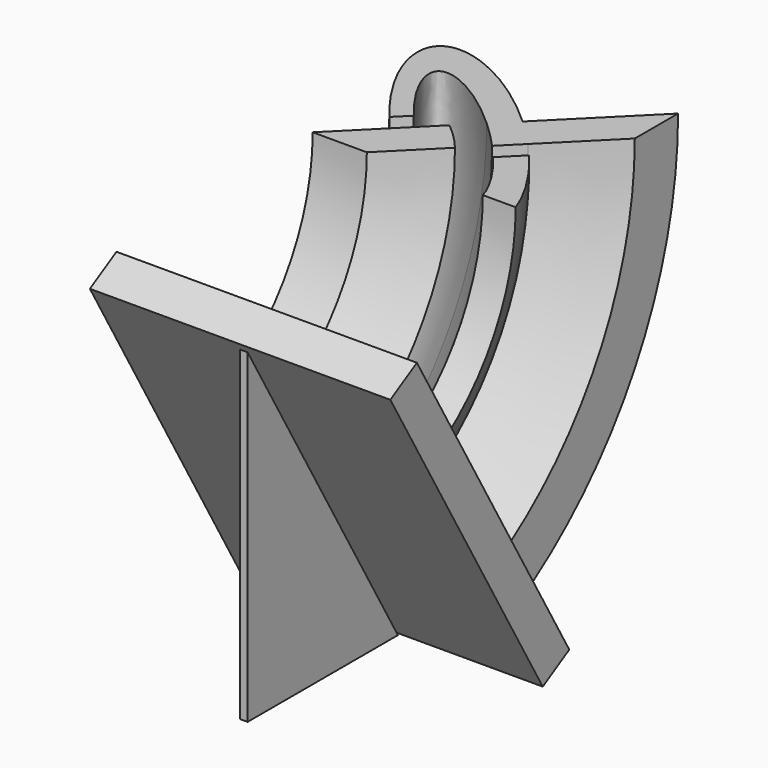
from build123d import *

# Parameters (mm, degrees)
F1_ANGLE = 60
F2_ANGLE = -30
F3_W     = 78.4868149137
F3_H     = 99.5495128835
F4_DEPTH = 10
F5_ANGLE = -60
F7_DEPTH = 1


with BuildPart() as f1:
    # F0 (on Front) → F1 (revolve)
    with BuildSketch(Plane.XZ):
        with BuildLine():
            Line((-4.8944096779, 2.1766581339), (-24.7487373415, -17.6776695297))
            Line((-24.7487373415, -17.6776695297), (-10.6066017178, -17.6776695297))
            Line((-10.6066017178, -17.6776695297), (2.1848961478, -4.8861716641))
            ThreePointArc((2.1848961478, -4.8861716641), (-1.1787168718, -1.1783062094), (-4.8944096779, 2.1766581339))
        make_face()
    revolve(axis=Axis((17.2885405923, 0, -70.7106781187), (-1, 0, 0)), revolution_arc=F1_ANGLE)


with BuildPart() as f1b:
    # F0 (on Front) → F1, piece 2 (revolve)
    with BuildSketch(Plane.XZ):
        with BuildLine():
            Line((28.2842712475, 21.2132034356), (28.2842712475, 35.3553390593))
            Line((28.2842712475, 35.3553390593), (5.7142966597, 12.7853644715))
            add(Edge.make_bspline(
                [(12.7853644715, 5.7142966597), (9.4017188272, 9.4017188272), (5.7142966597, 12.7853644715)],
                knots=[4.5870611492, 4.5870611492, 4.5870611492, 4.8377168116, 4.8377168116, 4.8377168116], degree=2, weights=[1, 0.9921567416, 1]))
            Line((12.7853644715, 5.7142966597), (28.2842712475, 21.2132034356))
        make_face()
        with BuildLine():
            Line((0.5098366568, 7.5809044686), (5.7142966597, 12.7853644715))
            add(Edge.make_bspline(
                [(5.7142966597, 12.7853644715), (-18.4857726137, 34.9917881652), (-27.9323619637, 28.5215361736), (-37.3789513136, 22.051284182), (-16.7285469574, -2.5864113336)],
                knots=[4.8377168116, 4.8377168116, 4.8377168116, 6.2195090952, 6.2195090952, 7.6013013788, 7.6013013788, 7.6013013788], degree=2, weights=[1, 0.7706752778, 1, 0.7706752778, 1]))
            Line((-16.7285469574, -2.5864113336), (-13.2276075332, 0.9145280905))
            add(Edge.make_bspline(
                [(0.5098366568, 7.5809044686), (-78.0136499432, 79.3031175459), (-13.2276075332, 0.9145280905)],
                knots=[4.8856686168, 4.8856686168, 4.8856686168, 7.5019265347, 7.5019265347, 7.5019265347], degree=2, weights=[1, 0.2596573519, 1]))
        make_face()
        with BuildLine():
            add(Edge.make_bspline(
                [(12.7853644715, 5.7142966597), (9.4017188272, 9.4017188272), (5.7142966597, 12.7853644715)],
                knots=[4.5870611492, 4.5870611492, 4.5870611492, 4.8377168116, 4.8377168116, 4.8377168116], degree=2, weights=[1, 0.9921567416, 1]))
            Line((5.7142966597, 12.7853644715), (0.5098366568, 7.5809044686))
            add(Edge.make_bspline(
                [(7.5809044686, 0.5098366568), (4.205415963, 4.205415963), (0.5098366568, 7.5809044686)],
                knots=[4.539109344, 4.539109344, 4.539109344, 4.8856686168, 4.8856686168, 4.8856686168], degree=2, weights=[1, 0.9850246108, 1]))
            Line((7.5809044686, 0.5098366568), (12.7853644715, 5.7142966597))
        make_face()
    revolve(axis=Axis((17.2885405923, 0, -70.7106781187), (-1, 0, 0)), revolution_arc=F1_ANGLE)


with BuildPart() as f1c:
    # F0 (on Front) → F1, piece 3 (revolve)
    with BuildSketch(Plane.XZ):
        with BuildLine():
            add(Edge.make_bspline(
                [(19.6910804431, -17.6776695297), (18.1743843917, -12.1088637364), (10.8705849293, -3.2715506945)],
                knots=[3.5662937204, 3.5662937204, 3.5662937204, 4.3603338811, 4.3603338811, 4.3603338811], degree=2, weights=[1, 0.9222173382, 1]))
            Line((19.6910804431, -17.6776695297), (28.2842712475, -17.6776695297))
            add(Edge.make_bspline(
                [(28.2842712475, -17.6776695297), (25.1467341511, -8.8569630283), (16.0902871279, 1.9481515042)],
                knots=[3.7639611421, 3.7639611421, 3.7639611421, 4.4597087252, 4.4597087252, 4.4597087252], degree=2, weights=[1, 0.9400996612, 1]))
            Line((16.0902871279, 1.9481515042), (10.8705849293, -3.2715506945))
        make_face()
    revolve(axis=Axis((17.2885405923, 0, -70.7106781187), (-1, 0, 0)), revolution_arc=F1_ANGLE)


with BuildPart() as f1_1:
    # F2: moved
    add(f1.part.rotate(Axis((17.2885405923, 0, -70.7106781187), (1, 0, 0)), F2_ANGLE))



with BuildPart() as f1b_1:
    # F2: moved
    add(f1b.part.rotate(Axis((17.2885405923, 0, -70.7106781187), (1, 0, 0)), F2_ANGLE))


with BuildPart() as f1c_1:
    # F2: moved
    add(f1c.part.rotate(Axis((17.2885405923, 0, -70.7106781187), (1, 0, 0)), F2_ANGLE))


with BuildPart() as f1_2:
    add(f1_1.part)

    add(f1b_1.part)  # F4 merges F1b

    add(f1c_1.part)  # F4 merges F1c
    # F3 (on face) → F4 (join)
    with BuildSketch(Plane(origin=(0, 0, -70.7106781187), x_dir=(1, 0, 0), z_dir=(0, 0, -1))):
        with Locations((-0.9591362094, -66.2912607362)):
            Rectangle(F3_W, F3_H)
    extrude(amount=F4_DEPTH)


with BuildPart() as f1_3:
    # F5: moved
    add(f1_2.part.rotate(Axis((-0.9591362094, 116.066017178, -80.7106781187), (1, 0, 0)), F5_ANGLE))


with BuildPart() as f7:
    # F6 (on Right) → F7 (new body, symmetric)
    with BuildSketch(Plane.YZ):
        Polygon((115.373196855, -80.7106781187), (66.2912607362, 4.3017289728), (66.2912607362, -80.7106781187), align=None)
    extrude(amount=F7_DEPTH, both=True)


solid = Compound([f1_3.part, f7.part])
